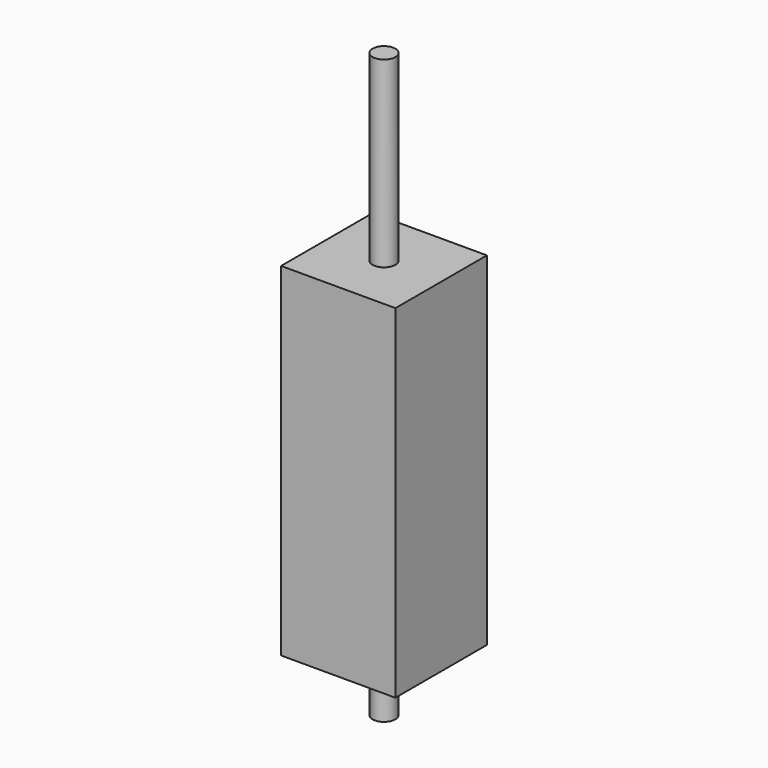
from build123d import *

# Parameters (mm, degrees)
F0_W     = 50
F0_H     = 50
F1_DEPTH = 75
F2_R     = 5
F3_DEPTH = 80
F4_R     = 5
F5_DEPTH = 25


with BuildPart() as f1:
    # F0 (on Top) → F1 (new body, symmetric)
    with BuildSketch(Plane.XY):
        Rectangle(F0_W, F0_H)
    extrude(amount=F1_DEPTH, both=True)

    # F2 (on face) → F3 (join)
    with BuildSketch(Plane.XY.offset(75)):
        Circle(F2_R)
    extrude(amount=F3_DEPTH)

    # F4 (on face) → F5 (join)
    with BuildSketch(Plane(origin=(0, 0, -75), x_dir=(1, 0, 0), z_dir=(0, 0, -1))):
        Circle(F4_R)
    extrude(amount=F5_DEPTH)


solid = f1.part
